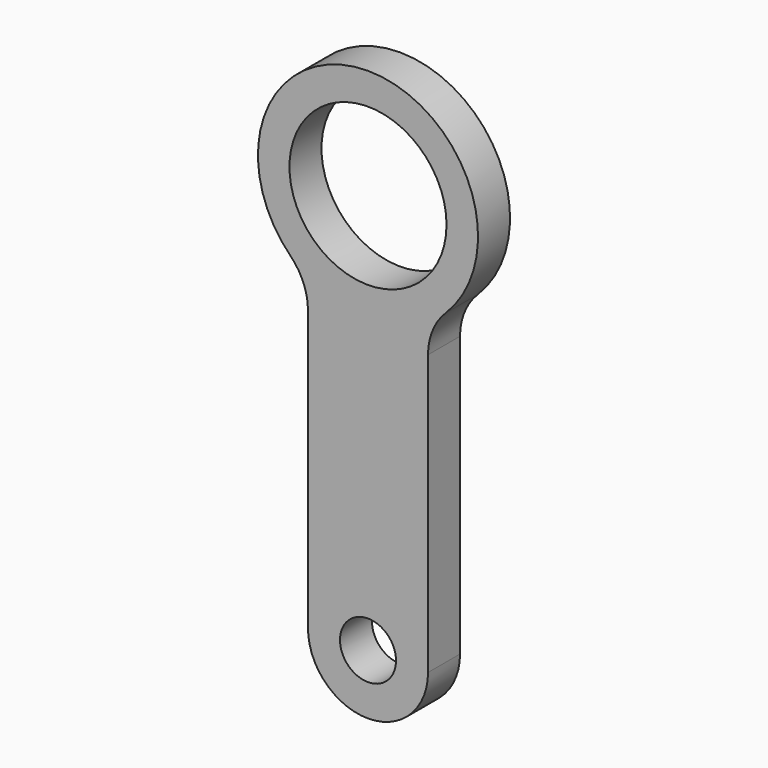
from build123d import *

# Parameters (mm, degrees)
F0_R     = 1.4
F0_R_2   = 3.925
F1_DEPTH = 2


with BuildPart() as f1:
    # F0 (on Front) → F1 (new body)
    with BuildSketch(Plane.XZ):
        with BuildLine():
            ThreePointArc((-3.882353, 6.10419), (-3.229356, 5.12965), (-3, 3.979203))
            Line((-3, 3.979203), (-3, 0))
            Line((-3, 0), (-3, -10))
            ThreePointArc((-3, -10), (0, -13), (3, -10))
            Line((3, -10), (3, 0))
            Line((3, 0), (3, 3.979203))
            ThreePointArc((3, 3.979203), (3.229356, 5.12965), (3.882353, 6.10419))
            ThreePointArc((3.882353, 6.10419), (0, 15.5), (-3.882353, 6.10419))
        make_face()
        with Locations((0, -10)):
            Circle(F0_R, mode=Mode.SUBTRACT)
        with Locations((0, 10)):
            Circle(F0_R_2, mode=Mode.SUBTRACT)
    extrude(amount=F1_DEPTH)


solid = f1.part
